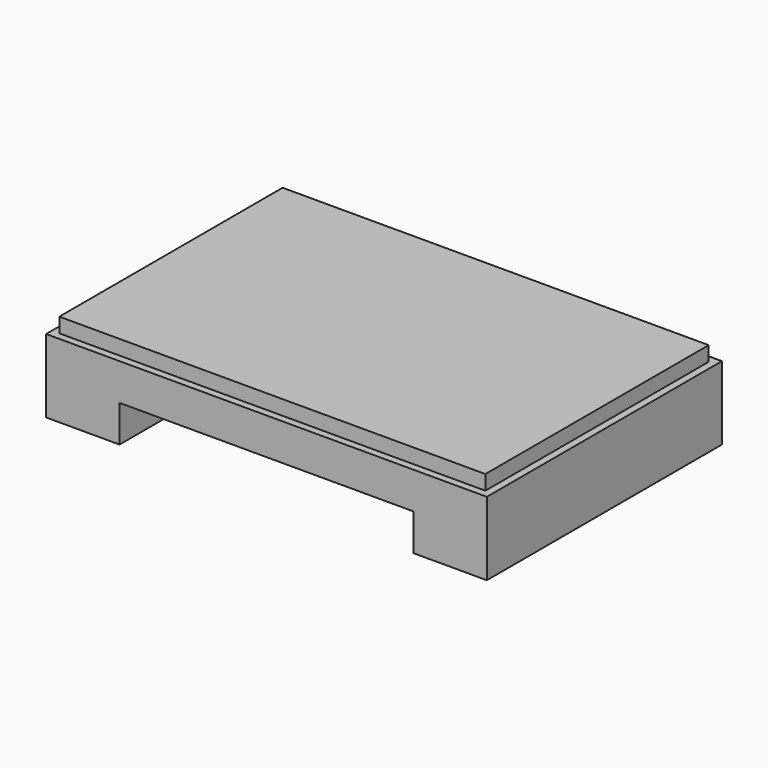
from build123d import *

# Parameters (mm, degrees)
F0_W      = 600
F0_H      = 400
F1_DEPTH  = 100
F2_W      = 580
F2_H      = 380
F3_DEPTH  = 80
F4_W      = 400
F4_H      = 50
F5_DEPTH  = 25
F6_W      = 400
F6_H      = 50
F7_DEPTH  = 25
F8_W      = 580
F8_H      = 380
F9_DEPTH  = 20
F10_DEPTH = 400


with BuildPart() as f1:
    # F0 (on Top) → F1 (new body)
    with BuildSketch(Plane.XY):
        Rectangle(F0_W, F0_H)
    extrude(amount=-F1_DEPTH)

    # F2 (on face) → F3 (cut)
    with BuildSketch(Plane(origin=(0, 0, -100), x_dir=(1, 0, 0), z_dir=(0, 0, -1))):
        Rectangle(F2_W, F2_H)
    extrude(amount=-F3_DEPTH, mode=Mode.SUBTRACT)

    # F4 (on face) → F5 (cut)
    with BuildSketch(Plane.XZ.offset(200)):
        with Locations((0, -75)):
            Rectangle(F4_W, F4_H)
    extrude(amount=-F5_DEPTH, mode=Mode.SUBTRACT)

    # F6 (on face) → F7 (cut)
    with BuildSketch(Plane(origin=(0, 200, 0), x_dir=(-1, 0, 0), z_dir=(0, 1, 0))):
        with Locations((0, -75)):
            Rectangle(F6_W, F6_H)
    extrude(amount=-F7_DEPTH, mode=Mode.SUBTRACT)

    # F8 (on face) → F9 (join)
    with BuildSketch(Plane.XY):
        Rectangle(F8_W, F8_H)
    extrude(amount=F9_DEPTH)

    # F10 (add): a face of the model
    f10_faces = [f1.faces().sort_by_distance(p)[0] for p in [
        (0, -200, -37.5),
    ]]
    extrude(f10_faces, amount=-F10_DEPTH)


solid = f1.part
